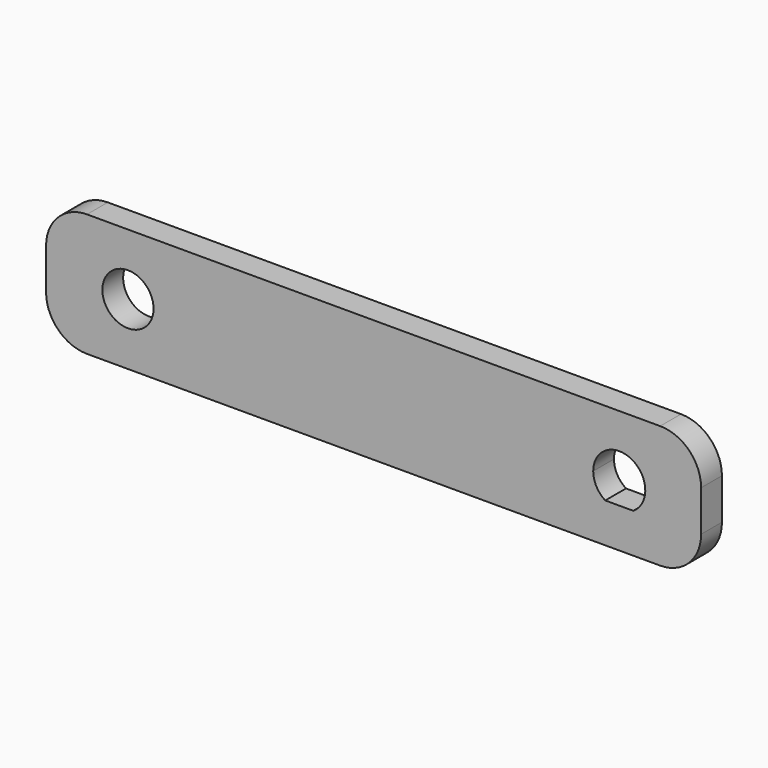
from build123d import *

# Parameters (mm, degrees)
F0_R     = 3.125
F1_DEPTH = 3.175


with BuildPart() as f1:
    # F0 (on Front) → F1 (new body)
    with BuildSketch(Plane.XZ):
        with BuildLine():
            ThreePointArc((40, 2.5), (38.535534, 6.035534), (35, 7.5))
            Line((35, 7.5), (-35, 7.5))
            ThreePointArc((-35, 7.5), (-38.535534, 6.035534), (-40, 2.5))
            Line((-40, 2.5), (-40, -2.5))
            ThreePointArc((-40, -2.5), (-38.535534, -6.035534), (-35, -7.5))
            Line((-35, -7.5), (35, -7.5))
            ThreePointArc((35, -7.5), (38.535534, -6.035534), (40, -2.5))
            Line((40, -2.5), (40, 2.5))
        make_face()
        with Locations((-30, 0)):
            Circle(F0_R, mode=Mode.SUBTRACT)
        with BuildLine():
            ThreePointArc((28.289735, -2.674999), (27.212965, -1.525353), (26.820006, 0))
            ThreePointArc((26.820006, 0), (31.526083, 2.79582), (31.710265, -2.674999))
            Line((31.710265, -2.674999), (28.289735, -2.674999))
        make_face(mode=Mode.SUBTRACT)
    extrude(amount=F1_DEPTH)


solid = f1.part
